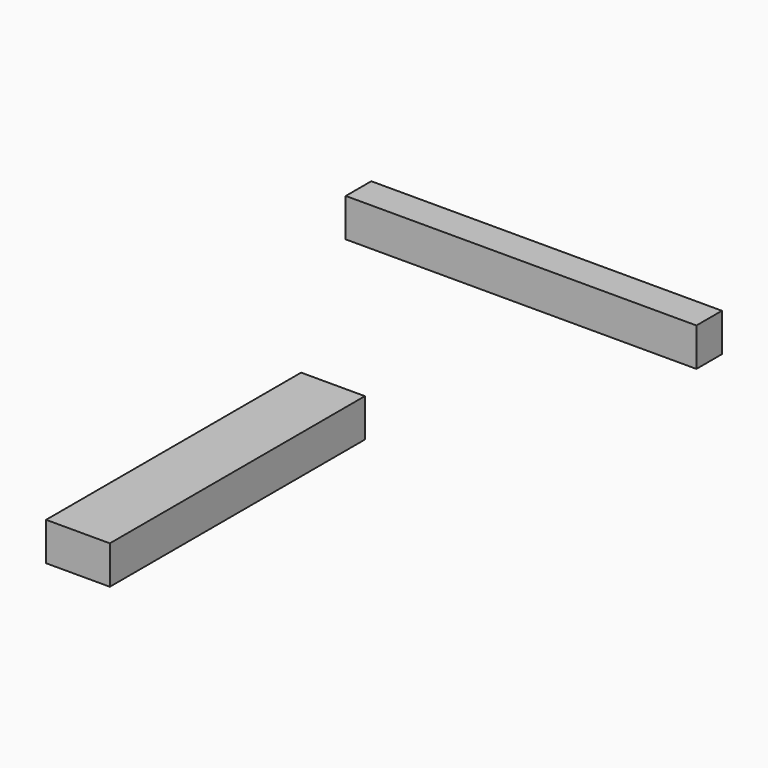
from build123d import *

# Parameters (mm, degrees)
F0_W     = 2
F0_H     = 5
F1_DEPTH = 1.2


with BuildPart() as f1:
    # F0 (on Top) → F1 (new body)
    with BuildSketch(Plane.XY):
        Rectangle(F0_W, F0_H)
        Polygon((-6, 15.5), (-1, 15.5), (5, 15.5), (5, 16.5), (-6, 16.5), align=None)
        with Locations((0, 5)):
            Rectangle(F0_W, F0_H)
    extrude(amount=F1_DEPTH)


solid = f1.part
